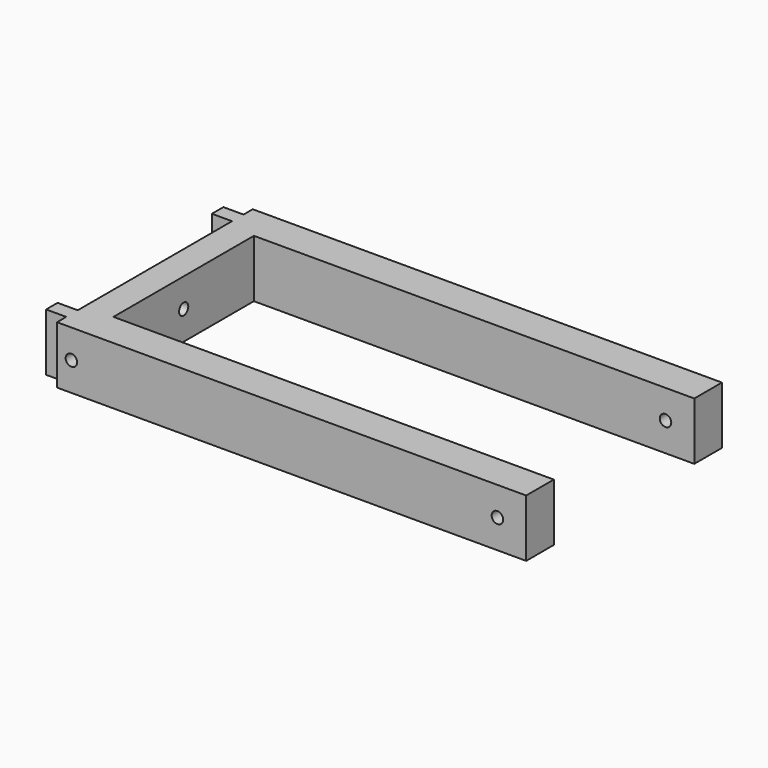
from build123d import *

# Parameters (mm, degrees)
PAD_DEPTH       = 20
SKETCH004_R     = 2
POCKET002_DEPTH = 163.001
SKETCH005_R     = 2
POCKET003_DEPTH = 85.001


with BuildPart() as part:
    # Sketch → Pad (new body)
    with BuildSketch(Plane.XY):
        Polygon((-10, -42.5), (153, -42.5), (153, -30.5), (0, -30.5), (0, 30.5), (153, 30.5), (153, 42.5), (-10, 42.5), (-10, 38.5), (-17, 38.5), (-17, 33.5), (-10, 33.5), (-10, -33.5), (-17, -33.5), (-17, -38.5), (-10, -38.5), align=None)
    extrude(amount=PAD_DEPTH)

    # Sketch004 → Pocket002 (cut, through all)
    with BuildSketch(Plane(origin=(-10, 0, 0), x_dir=(0, -1, 0), z_dir=(-1, 0, 0))):
        with Locations((0, 10)):
            Circle(SKETCH004_R)
    extrude(amount=-POCKET002_DEPTH, mode=Mode.SUBTRACT)

    # Sketch005 → Pocket003 (cut, through all)
    with BuildSketch(Plane.XZ.offset(42.5)):
        with Locations((-5, 10)):
            Circle(SKETCH005_R)
        with Locations((143, 10)):
            Circle(SKETCH005_R)
    extrude(amount=-POCKET003_DEPTH, mode=Mode.SUBTRACT)


solid = part.part
